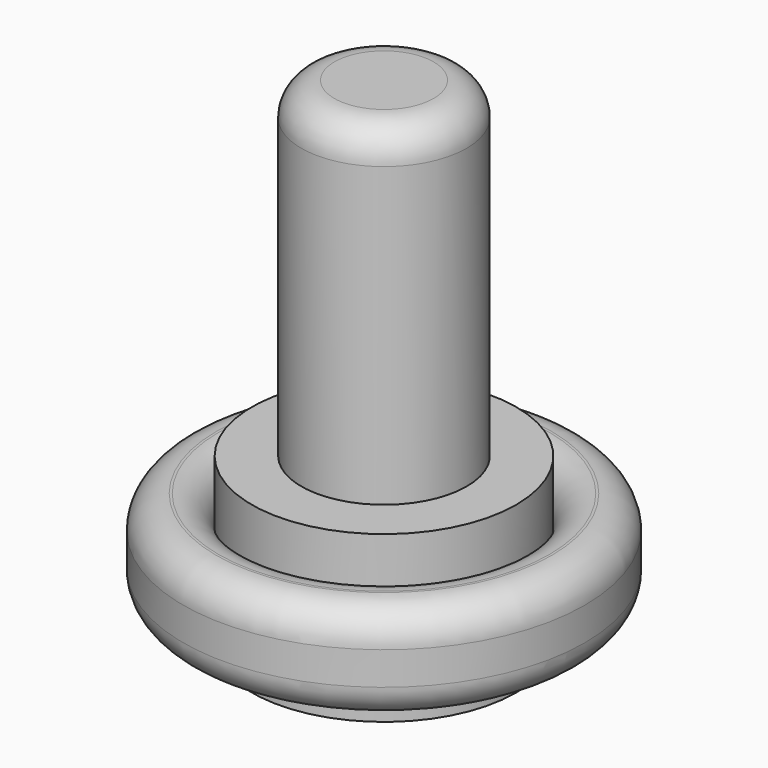
from build123d import *

# Parameters (mm, degrees)
F0_R     = 30.360351
F0_R_2   = 20
F1_DEPTH = 7.5
F2_R     = 5
F3_R     = 5
F4_R     = 5
F5_DEPTH = 12.5
F6_R     = 12.5
F7_DEPTH = 50
F8_R     = 5


with BuildPart() as f1:
    # F0 (on Top) → F1 (new body, symmetric)
    with BuildSketch(Plane.XY):
        Circle(F0_R)
        Circle(F0_R_2, mode=Mode.SUBTRACT)
    extrude(amount=F1_DEPTH, both=True)

    # F2
    f2_edges = [f1.edges().sort_by_distance(p)[0] for p in [
        (-30.360351, 0, -7.5),
        (-20, 0, -7.5),
    ]]
    fillet(f2_edges, radius=F2_R)

    # F3
    f3_edges = [f1.edges().sort_by_distance(p)[0] for p in [
        (-20, 0, 7.5),
    ]]
    fillet(f3_edges, radius=F3_R)

    # F4
    f4_edges = [f1.edges().sort_by_distance(p)[0] for p in [
        (-30.360351, 0, 7.5),
    ]]
    fillet(f4_edges, radius=F4_R)

    # F0 (on Top) → F5 (join, symmetric)
    with BuildSketch(Plane.XY):
        Circle(F0_R_2)
    extrude(amount=F5_DEPTH, both=True)

    # F6 (on face) → F7 (join)
    with BuildSketch(Plane.XY.offset(12.5)):
        Circle(F6_R)
    extrude(amount=F7_DEPTH)

    # F8
    f8_edges = [f1.edges().sort_by_distance(p)[0] for p in [
        (-12.5, 0, 62.5),
    ]]
    fillet(f8_edges, radius=F8_R)


solid = f1.part
